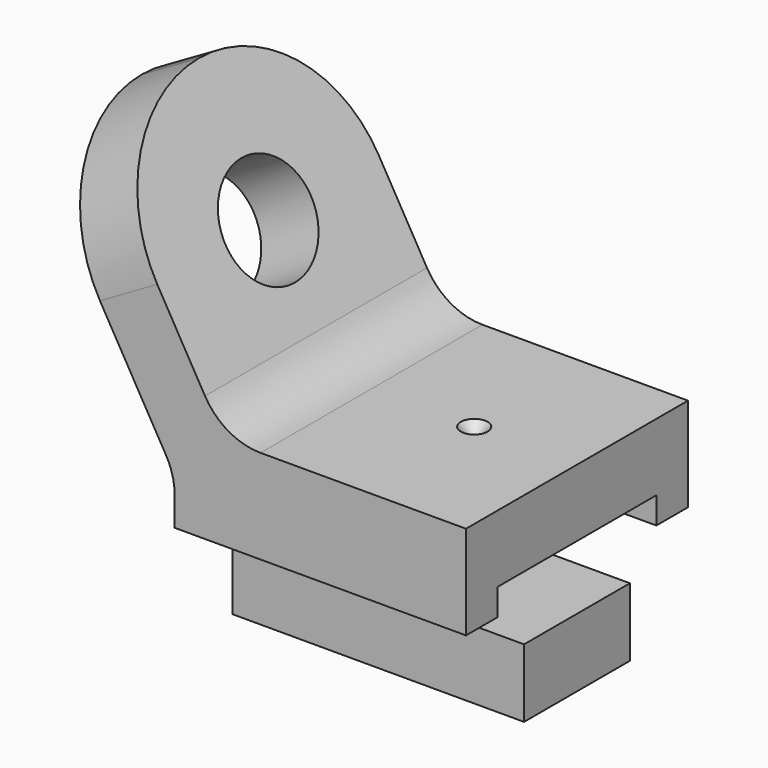
from build123d import *

# Parameters (mm, degrees)
F1_DEPTH  = 16.51
F2_W      = 11.811
F2_H      = 1.5875
F3_DEPTH  = 25.909
F4_DEPTH  = 25.909
F5_R      = 3.175
F6_DEPTH  = 12.7368181024
F9_DEPTH  = 3.937
F11_DEPTH = 8.255
F12_R     = 1.016
F13_R     = 3.81
F18_DEPTH = 25.4


with BuildPart() as f1:
    # F0 (on Front) → F1 (new body)
    with BuildSketch(Plane.XZ):
        Polygon((0, 0), (15.748, 0), (15.748, 5.588), (1.3198227154, 5.588), (-6.7504579853, 19.5661362049), (-10.16, 17.5976362049), align=None)
    extrude(amount=F1_DEPTH)

    # F2 (on face) → F3 (cut, through all)
    with BuildSketch(Plane.YZ.offset(15.748)):
        with Locations((-8.255, 0.79375)):
            Rectangle(F2_W, F2_H)
    extrude(amount=-F3_DEPTH, mode=Mode.SUBTRACT)

    # F2 (on face) → F4 (cut, through all)
    with BuildSketch(Plane.YZ.offset(15.748)):
        with Locations((-8.255, 0.79375)):
            Rectangle(F2_W, F2_H)
    extrude(amount=-F4_DEPTH, mode=Mode.SUBTRACT)

    # F5 (on face) → F6 (cut, through all)
    with BuildSketch(Plane(origin=(3.4095420147, 0, 1.9685), x_dir=(0, 1, 0), z_dir=(0.8660254038, 0, 0.5))):
        with Locations((-8.255, 12.065)):
            Circle(F5_R)
    extrude(amount=-F6_DEPTH, mode=Mode.SUBTRACT)

    # F8 (on mid) → F9 (join, symmetric)
    with BuildSketch(Plane.XZ.offset(8.255)):
        Polygon((0, -2.2225), (0, 0), (-0.9165435523, 1.5875), (-1.5875, 2.749630657), (-1.5875, -6.2865), (15.748, -6.2865), (15.748, -2.2225), align=None)
    extrude(amount=F9_DEPTH, both=True)

    # F10 (on mid) → F11 (join, symmetric)
    with BuildSketch(Plane.XZ.offset(8.255)):
        Polygon((-1.5875, 0), (0, 0), (0, 1.5875), (-0.9165435523, 1.5875), (-1.5875, 2.749630657), align=None)
    extrude(amount=F11_DEPTH, both=True)

    # F12
    f12_edges = [f1.edges().sort_by_distance(p)[0] for p in [
        (-0.79375, -4.318, 0),
        (-0.79375, -12.192, 0),
    ]]
    fillet(f12_edges, radius=F12_R)

    # F13
    f13_edges = [f1.edges().sort_by_distance(p)[0] for p in [
        (-1.5875, -8.255, 2.749631),
        (1.319823, -8.255, 5.588),
    ]]
    fillet(f13_edges, radius=F13_R)

    # F15 (on mid) → F16 (revolve, cut)
    with BuildSketch(Plane.XZ.offset(8.255)):
        Polygon((9.6337636205, 4.79425), (9.6337636205, 5.588), (8.8400136205, 5.588), align=None)
    revolve(axis=Axis((9.6337636205, -8.255, 5.191125), (0, 0, -1)), mode=Mode.SUBTRACT)

    # F17 (on face) → F18 (cut)
    with BuildSketch(Plane(origin=(3.4095420147, 0, 1.9685), x_dir=(0, 1, 0), z_dir=(0.8660254038, 0, 0.5))):
        with BuildLine():
            Line((-16.51, 20.32), (-16.51, 12.065))
            ThreePointArc((-16.51, 12.065), (-14.0921664787, 17.9021664787), (-8.255, 20.32))
            Line((-8.255, 20.32), (-16.51, 20.32))
        make_face()
        with BuildLine():
            Line((0, 20.32), (-8.255, 20.32))
            ThreePointArc((-8.255, 20.32), (-2.4178335213, 17.9021664787), (0, 12.065))
            Line((0, 12.065), (0, 20.32))
        make_face()
    extrude(amount=-F18_DEPTH, mode=Mode.SUBTRACT)


solid = f1.part
